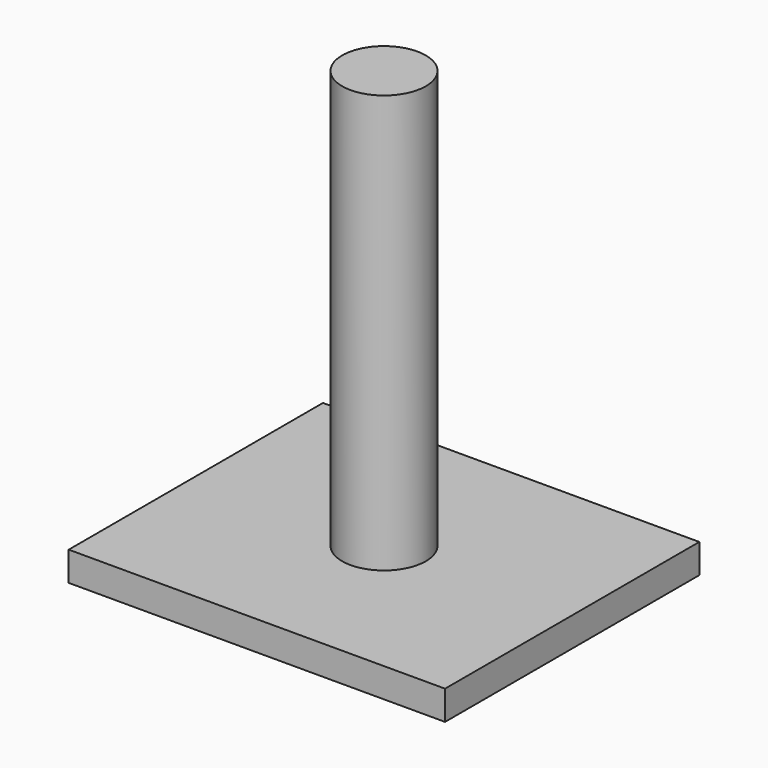
from build123d import *

# Parameters (mm, degrees)
F0_W     = 45
F0_H     = 38
F1_DEPTH = 3.5
F2_R     = 5
F3_DEPTH = 50


with BuildPart() as f1:
    # F0 (on Top) → F1 (new body)
    with BuildSketch(Plane.XY):
        Rectangle(F0_W, F0_H)
    extrude(amount=-F1_DEPTH)

    # F2 (on face) → F3 (join)
    with BuildSketch(Plane.XY):
        Circle(F2_R)
    extrude(amount=F3_DEPTH)


solid = f1.part
